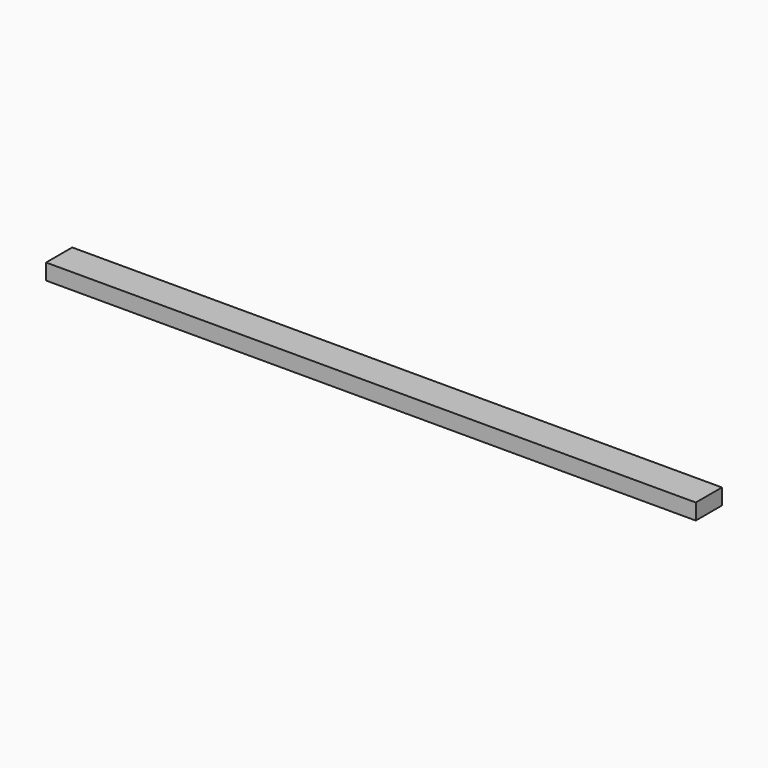
from build123d import *

# Parameters (mm, degrees)
F1_W     = 16.596571
F1_H     = 8.090824
F2_DEPTH = 330.2


with BuildPart() as f2:
    # F1 (on face) → F2 (new body)
    with BuildSketch(Plane.YZ):
        with Locations((0.622339, -4.045412)):
            Rectangle(F1_W, F1_H)
    extrude(amount=F2_DEPTH)


solid = f2.part
